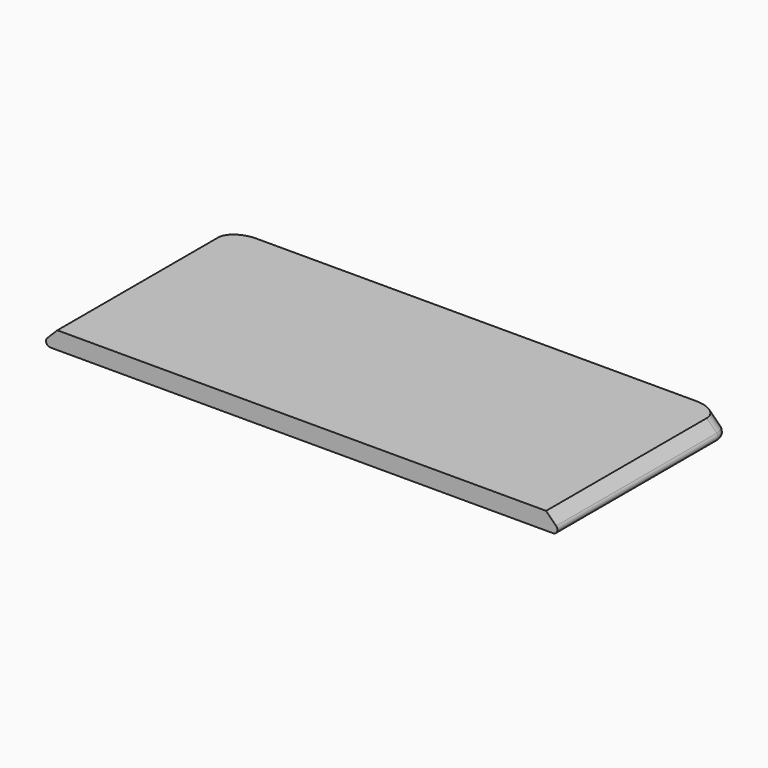
from build123d import *

# Parameters (mm, degrees)
EXTRUDE_DEPTH = 25
FILLET016_R   = 2
FILLET017_R   = 0.5


with BuildPart() as part:
    # Sketch → Extrude (new body)
    with BuildSketch(Plane.XZ):
        Polygon((10.846248, 101.514289), (8.846248, 99.514289), (68.846248, 99.514289), (66.846248, 101.514289), align=None)
    extrude(amount=EXTRUDE_DEPTH)


with BuildPart() as part_1:
    # Extrude placement: moved
    add(part.part.moved(Location((0.5, -6.5, -11.5))))

    # Fillet016
    fillet016_edges = [part_1.edges().sort_by_distance(p)[0] for p in [
        (10.346248, -6.5, 89.014289),
        (68.346248, -6.5, 89.014289),
    ]]
    fillet(fillet016_edges, radius=FILLET016_R)

    # Fillet017
    fillet017_edges = [part_1.edges().sort_by_distance(p)[0] for p in [
        (9.346248, -20, 88.014289),
        (69.346248, -20, 88.014289),
    ]]
    fillet(fillet017_edges, radius=FILLET017_R)


with BuildPart() as part_2:
    # Fillet017 placement: moved
    add(part_1.part.moved(Location((-0.5, 4.5, -0.26))))


solid = part_2.part
